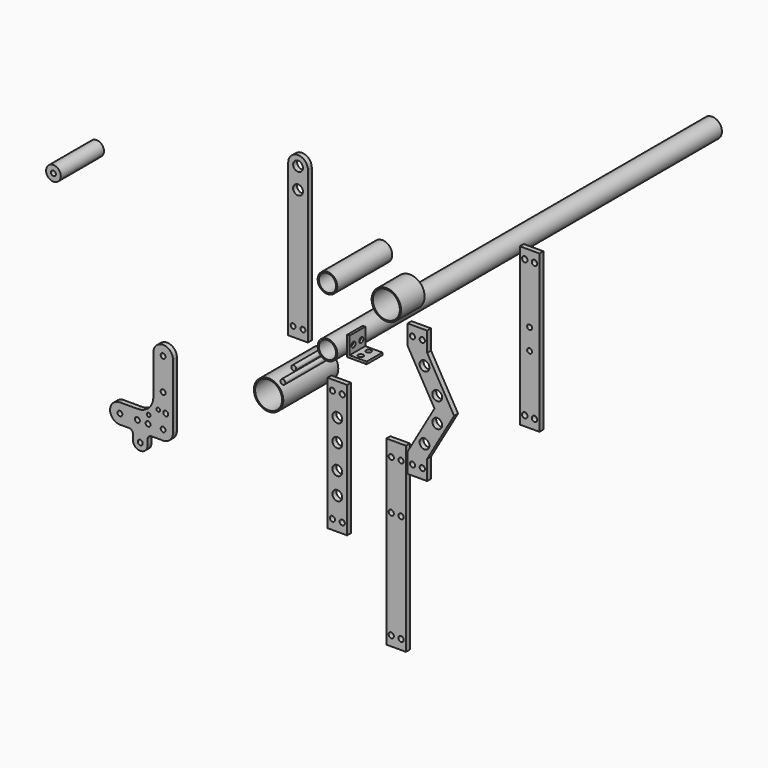
from build123d import *

# Parameters (mm, degrees)
F0_R             = 12.7
F0_R_2           = 11.1125
F1_DEPTH         = 622.3
F2_R             = 19.05
F2_R_2           = 17.4625
F3_DEPTH         = 38.1
F4_R             = 19.05
F4_R_2           = 17.4625
F5_DEPTH         = 88.9
F6_R             = 3.175
F7_DEPTH         = 6.35
F8_R             = 3.175
F8_R_2           = 6.35
F9_DEPTH         = 6.35
F11_DEPTH        = 25.4
F14_D            = 6.7564
F14_DEPTH        = 3.175
F14_TIP          = 2.0298273432
F14_ON_F12_D     = 6.7564
F14_ON_F12_DEPTH = 3.175
F14_ON_F12_TIP   = 2.0298273432
F15_R            = 12.7
F15_R_2          = 11.1125
F16_DEPTH        = 88.9
F17_R            = 6.35
F18_DEPTH        = 6.35
F19_D            = 6.7564
F19_DEPTH        = 26.0604
F19_TIP          = 2.0298273432
F20_W            = 25.4
F20_H            = 234.95
F21_DEPTH        = 6.35
F22_D            = 6.7564
F22_DEPTH        = 26.0604
F22_TIP          = 2.0298273432
F23_R            = 6.35
F24_DEPTH        = 6.35
F25_D            = 6.7564
F25_DEPTH        = 26.0604
F25_TIP          = 2.0298273432
F26_R            = 3.18
F26_R_2          = 2.38
F27_DEPTH        = 6.35
F28_R            = 3.175
F29_DEPTH        = 101.6
F30_R            = 3.175
F31_DEPTH        = 88.9
F32_W            = 25.4
F32_H            = 203.2
F32_R            = 3.175
F33_DEPTH        = 6.35
F34_D            = 7.1374
F34_DEPTH        = 304.8
F34_TIP          = 2.1442912911
F36_R            = 9.525
F36_R_2          = 3.175
F37_DEPTH        = 69.85


with BuildPart() as f1:
    # F0 (on Front) → F1 (new body)
    with BuildSketch(Plane.XZ):
        Circle(F0_R)
        Circle(F0_R_2, mode=Mode.SUBTRACT)
    extrude(amount=-F1_DEPTH)


with BuildPart() as f3:
    # F2 (on Front) → F3 (new body)
    with BuildSketch(Plane.XZ):
        with Locations((76.2, 76.2)):
            Circle(F2_R)
        with Locations((76.2, 76.2)):
            Circle(F2_R_2, mode=Mode.SUBTRACT)
    extrude(amount=-F3_DEPTH)


with BuildPart() as f5:
    # F4 (on Front) → F5 (new body)
    with BuildSketch(Plane.XZ):
        with Locations((-76.2, -76.2)):
            Circle(F4_R)
        with Locations((-76.2, -76.2)):
            Circle(F4_R_2, mode=Mode.SUBTRACT)
    extrude(amount=-F5_DEPTH)


with BuildPart() as f7:
    # F6 (on Front) → F7 (new body)
    with BuildSketch(Plane.XZ):
        with BuildLine():
            ThreePointArc((-88.9, 0), (-79.9197438789, 3.7197438789), (-76.2, 12.7))
            Line((-76.2, 12.7), (-76.2, 101.6))
            ThreePointArc((-76.2, 101.6), (-88.9, 114.3), (-101.6, 101.6))
            Line((-101.6, 101.6), (-101.6, 44.45))
            ThreePointArc((-101.6, 44.45), (-107.1796158184, 30.9796158184), (-120.65, 25.4))
            Line((-120.65, 25.4), (-146.05, 25.4))
            ThreePointArc((-146.05, 25.4), (-158.75, 12.7), (-146.05, 0))
            Line((-146.05, 0), (-88.9, 0))
        make_face()
        with Locations((-146.05, 12.7)):
            Circle(F6_R, mode=Mode.SUBTRACT)
        with Locations((-88.9, 12.7)):
            Circle(F6_R, mode=Mode.SUBTRACT)
        with Locations((-88.9, 101.6)):
            Circle(F6_R, mode=Mode.SUBTRACT)
    extrude(amount=-F7_DEPTH)


with BuildPart() as f9:
    # F8 (on Front) → F9 (new body)
    with BuildSketch(Plane.XZ):
        with BuildLine():
            Line((-50.8, 0), (-25.4, 0))
            Line((-25.4, 0), (-25.4, 196.85))
            ThreePointArc((-25.4, 196.85), (-38.1, 209.55), (-50.8, 196.85))
            Line((-50.8, 196.85), (-50.8, 0))
        make_face()
        with Locations((-44.45, 12.7)):
            Circle(F8_R, mode=Mode.SUBTRACT)
        with Locations((-31.75, 12.7)):
            Circle(F8_R, mode=Mode.SUBTRACT)
        with Locations((-38.1, 169.8625)):
            Circle(F8_R_2, mode=Mode.SUBTRACT)
        with Locations((-38.1, 196.85)):
            Circle(F8_R_2, mode=Mode.SUBTRACT)
    extrude(amount=-F9_DEPTH)


with BuildPart() as f11:
    # F10 (on Front) → F11 (new body)
    with BuildSketch(Plane.XZ):
        Polygon((25.4, 25.4), (25.4, 0), (50.8, 0), (50.8, 3.175), (28.575, 3.175), (28.575, 25.4), align=None)
    extrude(amount=-F11_DEPTH)

    # F14
    with Locations(Plane(origin=(0, 0, 0), x_dir=(1, 0, 0), z_dir=(0, 0, -1))):
        with Locations((38.1, -6.35), (38.1, -19.05)):
            Hole(F14_D / 2, depth=F14_DEPTH)
            with Locations((0, 0, -(F14_DEPTH + F14_TIP / 2))):  # 118° drill point
                Cone(0, F14_D / 2, F14_TIP, mode=Mode.SUBTRACT)

    # F14 on F12
    with Locations(Plane(origin=(25.4, 0, 0), x_dir=(0, -1, 0), z_dir=(-1, 0, 0))):
        with Locations((-19.05, 12.7), (-6.35, 12.7)):
            Hole(F14_ON_F12_D / 2, depth=F14_ON_F12_DEPTH)
            with Locations((0, 0, -(F14_ON_F12_DEPTH + F14_ON_F12_TIP / 2))):  # 118° drill point
                Cone(0, F14_ON_F12_D / 2, F14_ON_F12_TIP, mode=Mode.SUBTRACT)


with BuildPart() as f16:
    # F15 (on Front) → F16 (new body)
    with BuildSketch(Plane.XZ):
        with Locations((0, 76.2)):
            Circle(F15_R)
        with Locations((0, 76.2)):
            Circle(F15_R_2, mode=Mode.SUBTRACT)
    extrude(amount=-F16_DEPTH)


with BuildPart() as f18:
    # F17 (on Front) → F18 (new body)
    with BuildSketch(Plane.XZ):
        Polygon((0, -31.75), (0, -76.2), (0, -158.75), (0, -203.2), (25.4, -203.2), (25.4, -165.1), (25.4, -69.85), (25.4, -31.75), align=None)
        with Locations((12.7, -161.925)):
            Circle(F17_R, mode=Mode.SUBTRACT)
        with Locations((12.7, -133.35)):
            Circle(F17_R, mode=Mode.SUBTRACT)
        with Locations((12.7, -101.6)):
            Circle(F17_R, mode=Mode.SUBTRACT)
        with Locations((12.7, -73.025)):
            Circle(F17_R, mode=Mode.SUBTRACT)
    extrude(amount=-F18_DEPTH)

    # F19
    with Locations(Plane.XZ):
        with Locations((6.35, -44.45), (19.05, -44.45), (6.35, -190.5), (19.05, -190.5)):
            Hole(F19_D / 2, depth=F19_DEPTH)
            with Locations((0, 0, -(F19_DEPTH + F19_TIP / 2))):  # 118° drill point
                Cone(0, F19_D / 2, F19_TIP, mode=Mode.SUBTRACT)


with BuildPart() as f21:
    # F20 (on Front) → F21 (new body)
    with BuildSketch(Plane.XZ):
        with Locations((88.9, -193.675)):
            Rectangle(F20_W, F20_H)
    extrude(amount=-F21_DEPTH)

    # F22
    with Locations(Plane.XZ):
        with Locations((82.55, -95.25), (95.25, -95.25), (82.55, -158.75), (95.25, -158.75), (82.55, -298.45), (95.25, -298.45)):
            Hole(F22_D / 2, depth=F22_DEPTH)
            with Locations((0, 0, -(F22_DEPTH + F22_TIP / 2))):  # 118° drill point
                Cone(0, F22_D / 2, F22_TIP, mode=Mode.SUBTRACT)


with BuildPart() as f24:
    # F23 (on Front) → F24 (new body)
    with BuildSketch(Plane.XZ):
        Polygon((103.6555022001, -82.2135522336), (103.6555022001, -107.6135522336), (129.0555022001, -107.6135522336), (129.0555022001, -82.2135522336), (163.8841571889, -21.8885522336), (129.0555022001, 38.4364477664), (129.0555022001, 63.8364477664), (103.6555022001, 63.8364477664), (103.6555022001, 38.4364477664), (138.4841571889, -21.8885522336), align=None)
        with Locations((125.5209377234, -66.3385522336)):
            Circle(F23_R, mode=Mode.SUBTRACT)
        with Locations((142.0187216655, -37.7635522336)):
            Circle(F23_R, mode=Mode.SUBTRACT)
        with Locations((125.5209377234, 22.5614477664)):
            Circle(F23_R, mode=Mode.SUBTRACT)
        with Locations((142.0187216655, -6.0135522336)):
            Circle(F23_R, mode=Mode.SUBTRACT)
    extrude(amount=-F24_DEPTH)

    # F25
    with Locations(Plane.XZ):
        with Locations((110.0055022001, -94.9135522336), (122.7055022001, -94.9135522336), (110.0055022001, 51.1364477664), (122.7055022001, 51.1364477664)):
            Hole(F25_D / 2, depth=F25_DEPTH)
            with Locations((0, 0, -(F25_DEPTH + F25_TIP / 2))):  # 118° drill point
                Cone(0, F25_D / 2, F25_TIP, mode=Mode.SUBTRACT)


with BuildPart() as f27:
    # F26 (on Front) → F27 (new body)
    with BuildSketch(Plane.XZ):
        with BuildLine():
            Line((-200, -159.9), (-200, -76.2))
            ThreePointArc((-200, -76.2), (-212.7, -63.5), (-225.4, -76.2))
            Line((-225.4, -76.2), (-225.4, -127.2))
            ThreePointArc((-225.4, -127.2), (-231.2578643763, -141.3421356237), (-245.4, -147.2))
            Line((-245.4, -147.2), (-268.71, -147.2))
            ThreePointArc((-268.71, -147.2), (-281.41, -159.9), (-268.71, -172.6))
            Line((-268.71, -172.6), (-256.84, -172.6))
            ThreePointArc((-256.84, -172.6), (-253.3044660941, -174.0644660941), (-251.84, -177.6))
            Line((-251.84, -177.6), (-251.84, -184.4191370243))
            ThreePointArc((-251.84, -184.4191370243), (-242.31, -193.9491370243), (-232.78, -184.4191370243))
            Line((-232.78, -184.4191370243), (-232.78, -177.6))
            ThreePointArc((-232.78, -177.6), (-231.3155339059, -174.0644660941), (-227.78, -172.6))
            Line((-227.78, -172.6), (-212.7, -172.6))
            ThreePointArc((-212.7, -172.6), (-203.7197438789, -168.8802561211), (-200, -159.9))
        make_face()
        with Locations((-242.31, -184.4191370243)):
            Circle(F26_R, mode=Mode.SUBTRACT)
        with Locations((-268.71, -159.9)):
            Circle(F26_R, mode=Mode.SUBTRACT)
        with Locations((-246.0926, -159.9)):
            Circle(F26_R, mode=Mode.SUBTRACT)
        with Locations((-232.2326, -159.9)):
            Circle(F26_R, mode=Mode.SUBTRACT)
        with Locations((-231.49, -149.4124722222)):
            Circle(F26_R_2, mode=Mode.SUBTRACT)
        with Locations((-212.7, -159.9)):
            Circle(F26_R, mode=Mode.SUBTRACT)
        with Locations((-219.01, -139.4)):
            Circle(F26_R_2, mode=Mode.SUBTRACT)
        with Locations((-209.34, -140.64)):
            Circle(F26_R, mode=Mode.SUBTRACT)
        with Locations((-212.7, -117.4058)):
            Circle(F26_R, mode=Mode.SUBTRACT)
        with Locations((-212.7, -76.2)):
            Circle(F26_R, mode=Mode.SUBTRACT)
    extrude(amount=-F27_DEPTH)


with BuildPart() as f29:
    # F28 (on Front) → F29 (new body)
    with BuildSketch(Plane.XZ):
        with Locations((-57.6768815517, -55.3698129952)):
            Circle(F28_R)
    extrude(amount=-F29_DEPTH)


with BuildPart() as f31:
    # F30 (on Front) → F31 (new body)
    with BuildSketch(Plane.XZ):
        with Locations((-43.6502657831, -34.9202118814)):
            Circle(F30_R)
    extrude(amount=-F31_DEPTH)


with BuildPart() as f33:
    # F32 (on Front) → F33 (new body)
    with BuildSketch(Plane.XZ):
        with Locations((266.7, 101.6)):
            Rectangle(F32_W, F32_H)
        with Locations((266.7, 88.10625)):
            Circle(F32_R, mode=Mode.SUBTRACT)
        with Locations((266.7, 115.09375)):
            Circle(F32_R, mode=Mode.SUBTRACT)
    extrude(amount=F33_DEPTH)

    # F34
    with Locations(Plane(origin=(0, 0, 0), x_dir=(1, 0, 0), z_dir=(0, 1, 0))):
        with Locations((260.35, -12.7), (273.05, -12.7), (260.35, -190.5), (273.05, -190.5)):
            Hole(F34_D / 2, depth=F34_DEPTH)
            with Locations((0, 0, -(F34_DEPTH + F34_TIP / 2))):  # 118° drill point
                Cone(0, F34_D / 2, F34_TIP, mode=Mode.SUBTRACT)


with BuildPart() as f37:
    # F36 (on Front) → F37 (new body)
    with BuildSketch(Plane.XZ):
        with Locations((-298.8398969173, 132.3356330395)):
            Circle(F36_R)
        with Locations((-298.8398969173, 132.3356330395)):
            Circle(F36_R_2, mode=Mode.SUBTRACT)
    extrude(amount=F37_DEPTH)


solid = Compound([f1.part, f3.part, f5.part, f9.part, f11.part, f16.part, f18.part, f21.part, f24.part, f27.part, f29.part, f31.part, f33.part, f37.part])
